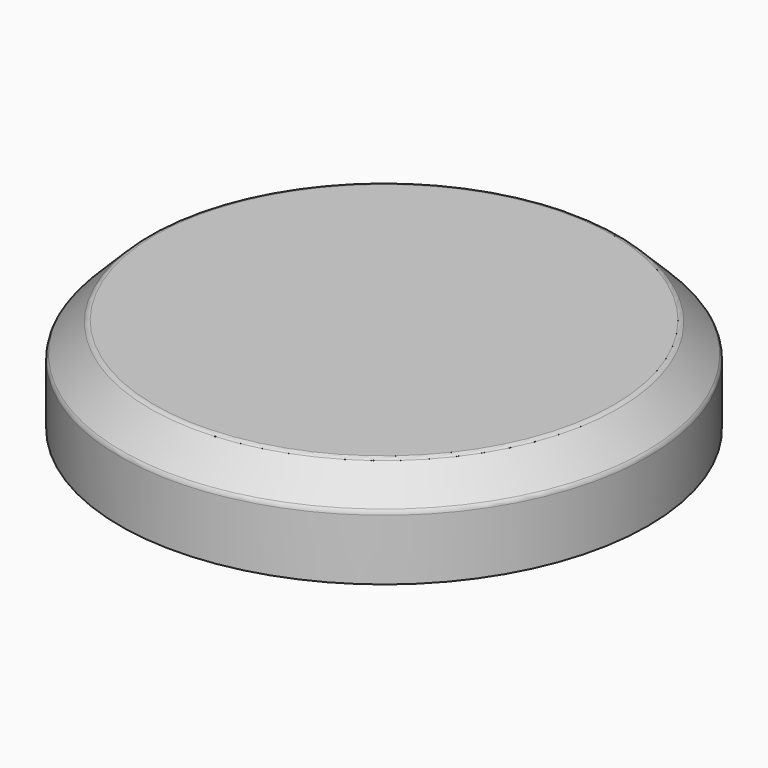
from build123d import *

# Parameters (mm, degrees)
F0_R     = 41.5439468533
F1_DEPTH = 15
F2_SIZE  = 5
F3_T     = -2
F4_R     = 1


with BuildPart() as f1:
    # F0 (on Top) → F1 (new body)
    with BuildSketch(Plane.XY):
        Circle(F0_R)
    extrude(amount=F1_DEPTH)

    # F2
    f2_edges = [f1.edges().sort_by_distance(p)[0] for p in [
        (-41.543947, 0, 15),
    ]]
    chamfer(f2_edges, length=F2_SIZE)

    # F3
    f3_openings = [f1.faces().sort_by_distance(p)[0] for p in [
        (0, 0, 0),
    ]]
    offset(amount=F3_T, openings=f3_openings)

    # F4
    f4_edges = [f1.edges().sort_by_distance(p)[0] for p in [
        (39.043947, 0, 12.5),
        (-41.543947, 0, 10),
        (-36.543947, 0, 15),
    ]]
    fillet(f4_edges, radius=F4_R)


solid = f1.part
